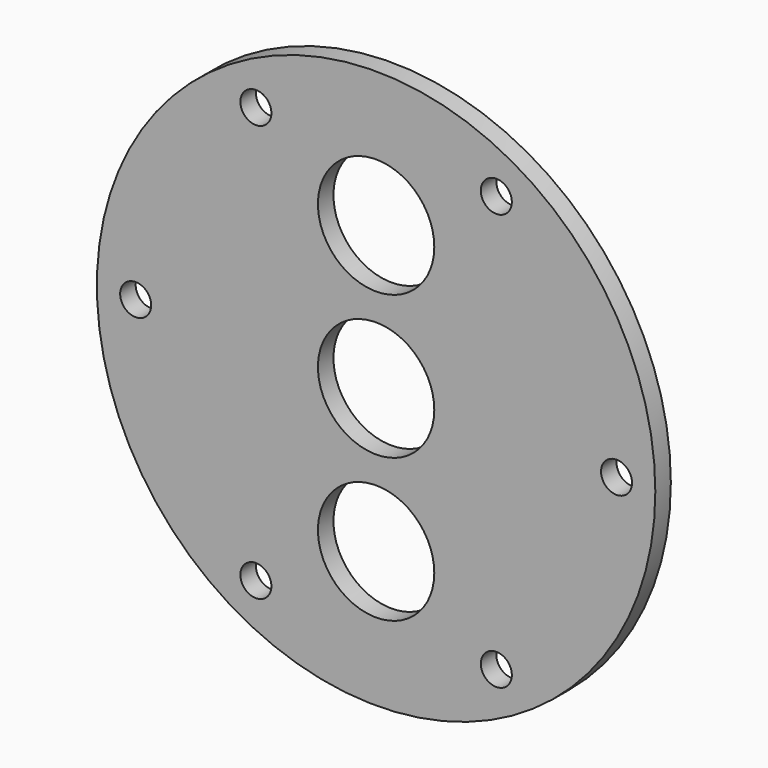
from build123d import *

# Parameters (mm, degrees)
F0_R     = 72
F0_R_2   = 4
F0_R_3   = 15
F1_DEPTH = 5


with BuildPart() as f1:
    # F0 (on Front) → F1 (new body)
    with BuildSketch(Plane.XZ):
        Circle(F0_R)
        with Locations((-31, -53.693575)):
            Circle(F0_R_2, mode=Mode.SUBTRACT)
        with Locations((0, -37)):
            Circle(F0_R_3, mode=Mode.SUBTRACT)
        with Locations((31, -53.693575)):
            Circle(F0_R_2, mode=Mode.SUBTRACT)
        with Locations((-62, 0)):
            Circle(F0_R_2, mode=Mode.SUBTRACT)
        with Locations((-31, 53.693575)):
            Circle(F0_R_2, mode=Mode.SUBTRACT)
        Circle(F0_R_3, mode=Mode.SUBTRACT)
        with Locations((62, 0)):
            Circle(F0_R_2, mode=Mode.SUBTRACT)
        with Locations((0, 37)):
            Circle(F0_R_3, mode=Mode.SUBTRACT)
        with Locations((31, 53.693575)):
            Circle(F0_R_2, mode=Mode.SUBTRACT)
    extrude(amount=F1_DEPTH)


solid = f1.part
